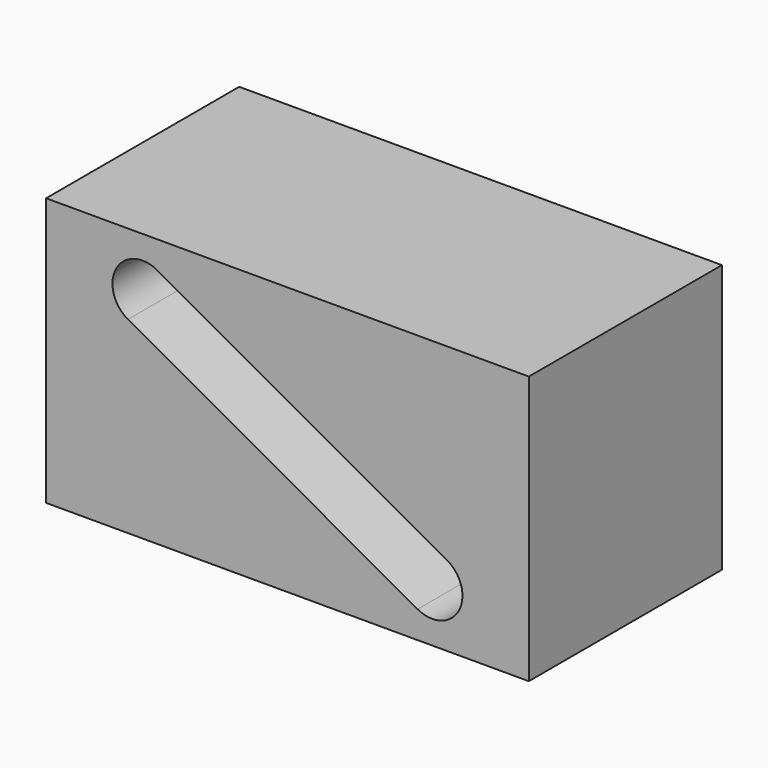
from build123d import *

# Parameters (mm, degrees)
F0_W     = 18
F0_H     = 10
F1_DEPTH = 4.5


with BuildPart() as f1:
    # F0 (on Front) → F1 (new body, symmetric)
    with BuildSketch(Plane.XZ):
        Rectangle(F0_W, F0_H)
        with BuildLine():
            ThreePointArc((-5.946348, 2.016573), (-6.383427, 3.546348), (-4.853652, 3.983427))
            Line((-4.853652, 3.983427), (5.946348, -2.016573))
            ThreePointArc((5.946348, -2.016573), (6.383427, -3.546348), (4.853652, -3.983427))
            Line((4.853652, -3.983427), (-5.946348, 2.016573))
        make_face(mode=Mode.SUBTRACT)
    extrude(amount=F1_DEPTH, both=True)


solid = f1.part
